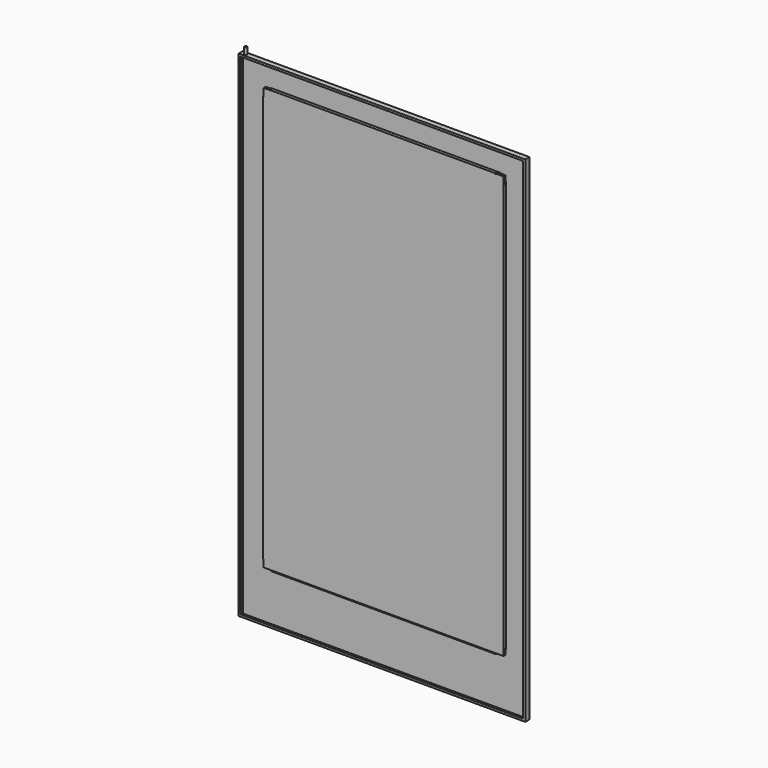
from build123d import *

# Parameters (mm, degrees)
F0_W      = 57
F0_H      = 97
F1_DEPTH  = 0.1
F2_R      = 0.25
F2_W      = 0.7
F2_H      = 0.7
F2_W_2    = 42.3999996498
F2_H_2    = 77.4
F3_DEPTH  = 25
F2_W_3    = 55
F2_H_3    = 95
F2_W_4    = 54.8
F2_H_4    = 94.8
F4_DEPTH  = 0.8
F5_R      = 0.25
F6_DEPTH  = 100
F7_DEPTH  = 25
F8_W      = 55
F8_H      = 95
F8_W_2    = 54.8
F8_H_2    = 94.8
F8_W_3    = 54.2
F8_H_3    = 94.2
F9_DEPTH  = 0.1
F10_W     = 44.9999996498
F10_H     = 80
F10_W_2   = 42.3999996498
F10_H_2   = 77.4
F11_DEPTH = 25
F10_W_3   = 43.9999996498
F10_H_3   = 0.1
F10_W_4   = 0.1
F10_H_4   = 79
F14_DEPTH = 0.6
F15_DEPTH = 0.1
F16_DEPTH = 0.1
F17_DEPTH = 0.1
F18_SIZE  = 0.5
F19_DEPTH = 0.5
F20_DEPTH = 1.25


with BuildPart() as f1:
    # F0 (on Front) → F1 (new body)
    with BuildSketch(Plane.XZ):
        with Locations((9.9847369492, -14.063598156)):
            Rectangle(F0_W, F0_H)
    extrude(amount=F1_DEPTH)

    # F2 (on face) → F3 (cut)
    with BuildSketch(Plane.XZ.offset(0.1)):
        with Locations((-16.5152630508, 33.786401844)):
            Circle(F2_R)
        with Locations((-16.5152630508, -61.913598156)):
            Circle(F2_R)
        with Locations((-17.8652630508, -61.913598156)):
            Rectangle(F2_W, F2_H)
        Polygon((-18.2152630508, -62.263598156), (-18.2152630508, -61.563598156), (-18.5152630508, -61.563598156), (-18.5152630508, -62.563598156), (-17.5152630508, -62.563598156), (-17.5152630508, -62.263598156), align=None)
        Polygon((-18.2152630508, 33.436401844), (-18.2152630508, 34.136401844), (-17.5152630508, 34.136401844), (-17.5152630508, 34.436401844), (-18.5152630508, 34.436401844), (-18.5152630508, 33.436401844), align=None)
        with Locations((-17.8652630508, 33.786401844)):
            Rectangle(F2_W, F2_H)
        Polygon((37.4847369492, 34.436401844), (37.4847369492, 34.136401844), (38.1847369492, 34.136401844), (38.1847369492, 33.436401844), (38.4847369492, 33.436401844), (38.4847369492, 34.436401844), align=None)
        with Locations((37.8347369492, 33.786401844)):
            Rectangle(F2_W, F2_H)
        Polygon((38.4847369492, -61.563598156), (38.1847369492, -61.563598156), (38.1847369492, -62.263598156), (37.4847369492, -62.263598156), (37.4847369492, -62.563598156), (38.4847369492, -62.563598156), align=None)
        with Locations((37.8347369492, -61.913598156)):
            Rectangle(F2_W, F2_H)
        with Locations((9.9847371243, -11.563598156)):
            Rectangle(F2_W_2, F2_H_2)
    extrude(amount=-F3_DEPTH, mode=Mode.SUBTRACT)

    # F2 (on face) → F4 (join)
    with BuildSketch(Plane.XZ.offset(0.1)):
        with Locations((9.9847369492, -14.063598156)):
            Rectangle(F2_W_3, F2_H_3)
        with Locations((9.9847369492, -14.063598156)):
            Rectangle(F2_W_4, F2_H_4, mode=Mode.SUBTRACT)
    extrude(amount=F4_DEPTH)

    # F5 (on face) → F6 (cut)
    with BuildSketch(Plane.XY.offset(33.436401844)):
        with Locations((-16.5152630508, -0.5)):
            Circle(F5_R)
    extrude(amount=-F6_DEPTH, mode=Mode.SUBTRACT)

    # F7 (cut): faces of the model
    f7_faces = [f1.faces().sort_by_distance(p)[0] for p in [
        (-18.0152630508, -0.1, -14.063598156),
        (10.0796806763, -0.1, 33.9369392613),
        (37.9847369492, -0.1, -14.063598156),
        (10.0796806763, -0.1, -62.0641355733),
    ]]
    extrude(f7_faces, amount=-F7_DEPTH, mode=Mode.SUBTRACT)

    # F8 (on face) → F9 (join)
    with BuildSketch(Plane.XZ.offset(0.9)):
        with Locations((9.9847369492, -14.063598156)):
            Rectangle(F8_W, F8_H)
        with Locations((9.9847369492, -14.063598156)):
            Rectangle(F8_W_2, F8_H_2, mode=Mode.SUBTRACT)
        with Locations((9.9847369492, -14.063598156)):
            Rectangle(F8_W_2, F8_H_2)
        with Locations((9.9847369492, -14.063598156)):
            Rectangle(F8_W_3, F8_H_3, mode=Mode.SUBTRACT)
    extrude(amount=F9_DEPTH)

    # F10 (on face) → F11 (cut)
    with BuildSketch(Plane.XZ.offset(0.1)):
        with Locations((9.9847371243, -11.563598156)):
            Rectangle(F10_W, F10_H)
        with Locations((9.9847371243, -11.563598156)):
            Rectangle(F10_W_2, F10_H_2, mode=Mode.SUBTRACT)
    extrude(amount=-F11_DEPTH, mode=Mode.SUBTRACT)

    # F10 (on face) → F14 (join)
    with BuildSketch(Plane.XZ.offset(0.1)):
        with Locations((9.9847371243, -52.113598156)):
            Rectangle(F10_W_3, F10_H_3)
        with Locations((33.0347369492, -11.563598156)):
            Rectangle(F10_W_4, F10_H_4)
        with Locations((-13.0652627006, -11.563598156)):
            Rectangle(F10_W_4, F10_H_4)
        with Locations((9.9847371243, 28.986401844)):
            Rectangle(F10_W_3, F10_H_3)
    extrude(amount=F14_DEPTH)

    # F10 (on face) → F15 (join)
    with BuildSketch(Plane.XZ.offset(0.1)):
        Polygon((-12.4152627006, 28.536401844), (-12.5152627006, 28.436401844), (32.4847369492, 28.436401844), (32.3847369492, 28.536401844), align=None)
        Polygon((-12.0152627006, 28.936401844), (-12.4152627006, 28.536401844), (32.3847369492, 28.536401844), (31.9847369492, 28.936401844), align=None)
        Polygon((32.9847369492, 27.936401844), (32.5847369492, 28.336401844), (32.5847369492, -51.463598156), (32.9847369492, -51.063598156), align=None)
        Polygon((-12.6152627006, -51.463598156), (-12.6152627006, 28.336401844), (-13.0152627006, 27.936401844), (-13.0152627006, -51.063598156), align=None)
        Polygon((32.3847369492, -51.663598156), (-12.4152627006, -51.663598156), (-12.0152627006, -52.063598156), (31.9847369492, -52.063598156), align=None)
        Polygon((32.4847369492, -51.563598156), (-12.5152627006, -51.563598156), (-12.4152627006, -51.663598156), (32.3847369492, -51.663598156), align=None)
    extrude(amount=F15_DEPTH)

    # F16 (add): a face of the model
    f16_faces = [f1.faces().sort_by_distance(p)[0] for p in [
        (-12.6152627006, -0.15, -11.563598156),
    ]]
    extrude(f16_faces, amount=F16_DEPTH)

    # F17 (add): a face of the model
    f17_faces = [f1.faces().sort_by_distance(p)[0] for p in [
        (32.5847369492, -0.15, -11.563598156),
    ]]
    extrude(f17_faces, amount=F17_DEPTH)

    # F18
    f18_edges = [f1.edges().sort_by_distance(p)[0] for p in [
        (33.034737, -0.7, -51.063598),
        (31.984737, -0.7, -52.113598),
        (-13.065263, -0.7, -51.063598),
        (-12.015263, -0.7, -52.113598),
        (-12.015263, -0.7, 28.986402),
        (-13.065263, -0.7, 27.936402),
        (31.984737, -0.7, 28.986402),
        (33.034737, -0.7, 27.936402),
    ]]
    chamfer(f18_edges, length=F18_SIZE)


with BuildPart() as f19:
    # F10 (on face) → F19 (new body)
    with BuildSketch(Plane.XZ.offset(0.1)):
        Polygon((-12.6152627006, 28.536401844), (-12.4152627006, 28.536401844), (-12.0152627006, 28.936401844), (-13.0152627006, 28.936401844), (-13.0152627006, 27.936401844), (-12.6152627006, 28.336401844), align=None)
        Polygon((-12.6152627006, 28.336401844), (-12.5152627006, 28.436401844), (-12.4152627006, 28.536401844), (-12.6152627006, 28.536401844), align=None)
        Polygon((-12.0152627006, 28.936401844), (-12.4152627006, 28.536401844), (32.3847369492, 28.536401844), (31.9847369492, 28.936401844), align=None)
        Polygon((-12.6152627006, -51.463598156), (-12.6152627006, 28.336401844), (-13.0152627006, 27.936401844), (-13.0152627006, -51.063598156), align=None)
        Polygon((-12.4152627006, 28.536401844), (-12.5152627006, 28.436401844), (32.4847369492, 28.436401844), (32.3847369492, 28.536401844), align=None)
        Polygon((-12.5152627006, -51.563598156), (-12.5152627006, 28.436401844), (-12.6152627006, 28.336401844), (-12.6152627006, -51.463598156), align=None)
        with Locations((9.9847371243, -11.563598156)):
            Rectangle(F10_W, F10_H)
        with Locations((9.9847371243, -11.563598156)):
            Rectangle(F10_W_2, F10_H_2, mode=Mode.SUBTRACT)
        with Locations((9.9847371243, -11.563598156)):
            Rectangle(F10_W_2, F10_H_2)
        Polygon((31.9847369492, 28.936401844), (32.3847369492, 28.536401844), (32.5847369492, 28.536401844), (32.5847369492, 28.336401844), (32.9847369492, 27.936401844), (32.9847369492, 28.936401844), align=None)
        Polygon((32.3847369492, 28.536401844), (32.4847369492, 28.436401844), (32.5847369492, 28.336401844), (32.5847369492, 28.536401844), align=None)
        Polygon((32.5847369492, 28.336401844), (32.4847369492, 28.436401844), (32.4847369492, -51.563598156), (32.5847369492, -51.463598156), align=None)
        Polygon((32.9847369492, 27.936401844), (32.5847369492, 28.336401844), (32.5847369492, -51.463598156), (32.9847369492, -51.063598156), align=None)
        Polygon((32.5847369492, -51.463598156), (32.4847369492, -51.563598156), (32.3847369492, -51.663598156), (32.5847369492, -51.663598156), align=None)
        Polygon((32.5847369492, -51.663598156), (32.3847369492, -51.663598156), (31.9847369492, -52.063598156), (32.9847369492, -52.063598156), (32.9847369492, -51.063598156), (32.5847369492, -51.463598156), align=None)
        Polygon((32.4847369492, -51.563598156), (-12.5152627006, -51.563598156), (-12.4152627006, -51.663598156), (32.3847369492, -51.663598156), align=None)
        Polygon((32.3847369492, -51.663598156), (-12.4152627006, -51.663598156), (-12.0152627006, -52.063598156), (31.9847369492, -52.063598156), align=None)
        Polygon((-12.4152627006, -51.663598156), (-12.5152627006, -51.563598156), (-12.6152627006, -51.463598156), (-12.6152627006, -51.663598156), align=None)
        Polygon((-12.6152627006, -51.663598156), (-12.6152627006, -51.463598156), (-13.0152627006, -51.063598156), (-13.0152627006, -52.063598156), (-12.0152627006, -52.063598156), (-12.4152627006, -51.663598156), align=None)
    extrude(amount=F19_DEPTH)


with BuildPart() as f20:
    # F5 (on face) → F20 (new body)
    with BuildSketch(Plane.XY.offset(33.436401844)):
        with Locations((-16.5152630508, -0.5)):
            Circle(F5_R)
    extrude(amount=F20_DEPTH)


solid = Compound([f1.part, f19.part, f20.part])
